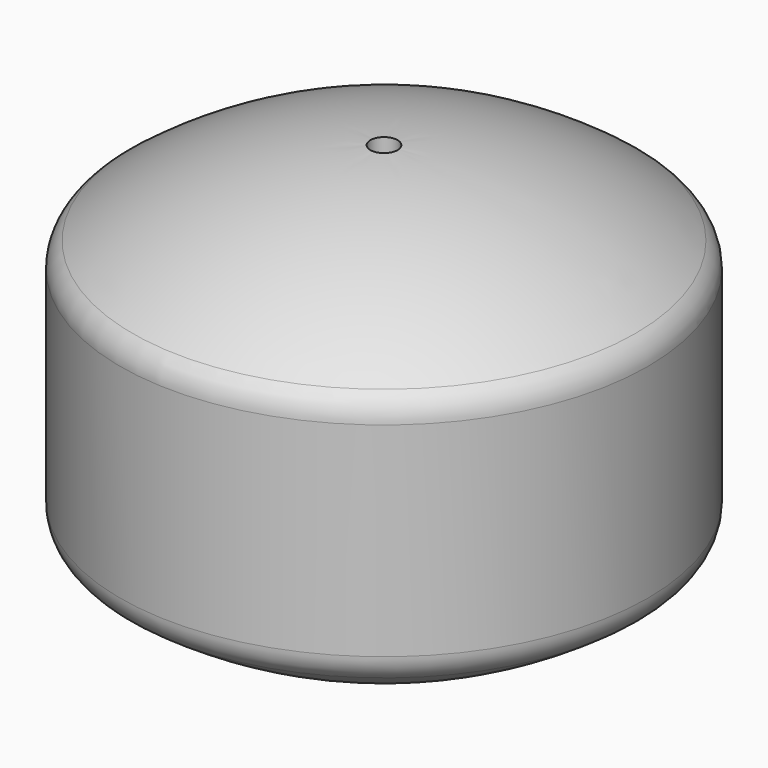
from build123d import *


with BuildPart() as f1:
    # F0 (on Front) → F1 (revolve)
    with BuildSketch(Plane.XZ):
        with BuildLine():
            Line((1.3, 0), (5, 0))
            Line((5, 0), (5, 7.690747))
            ThreePointArc((5, 7.690747), (13.930559, 5.375614), (22.04, 0.976557))
            ThreePointArc((22.04, 0.976557), (22.966458, -0.09252), (23.3, -1.467293))
            Line((23.3, -1.467293), (23.3, -19.010165))
            ThreePointArc((23.3, -19.010165), (22.948616, -20.419005), (21.976779, -21.497817))
            ThreePointArc((21.976779, -21.497817), (13.865739, -25.647781), (5, -27.747747))
            Line((5, -27.747747), (5, -20))
            Line((5, -20), (1.3, -20))
            Line((1.3, -20), (1.3, -30))
            ThreePointArc((1.3, -30), (13.256649, -27.968633), (24.05492, -22.447289))
            ThreePointArc((24.05492, -22.447289), (24.970651, -21.38074), (25.3, -20.014131))
            Line((25.3, -20.014131), (25.3, -0.454134))
            ThreePointArc((25.3, -0.454134), (24.985547, 0.882967), (24.108108, 1.939764))
            ThreePointArc((24.108108, 1.939764), (13.327972, 7.735387), (1.3, 10))
            Line((1.3, 10), (1.3, 0))
        make_face()
    revolve(axis=Axis((0, 0, -2.998304), (0, 0, -1)))


solid = f1.part
